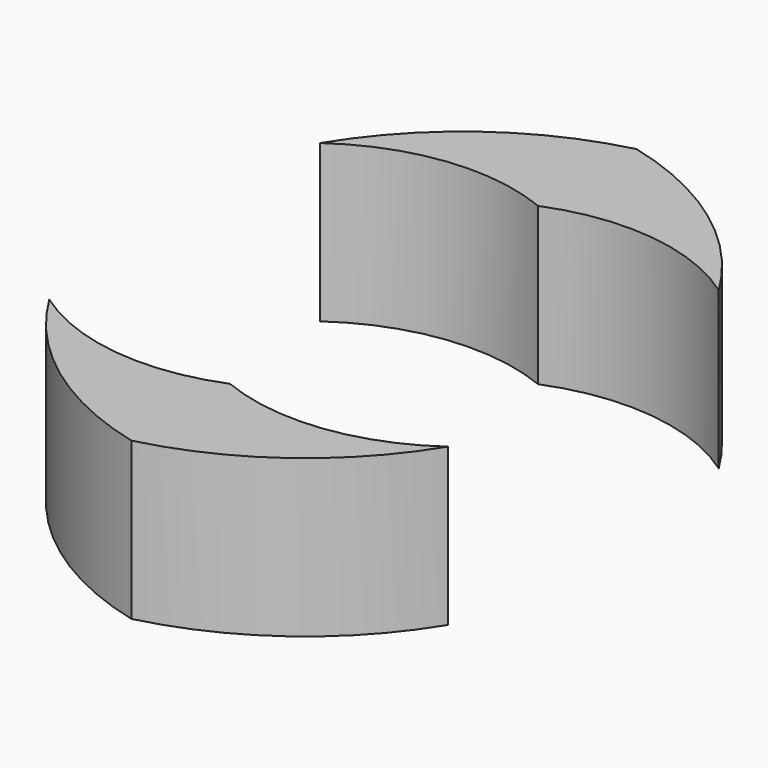
from build123d import *

# Parameters (mm, degrees)
F0_R     = 52.633452
F0_R_2   = 33.65242
F1_DEPTH = 25.4


with BuildPart() as f1:
    # F0 (on Top) → F1 (new body)
    with BuildSketch(Plane.XY):
        Circle(F0_R)
        Circle(F0_R_2, mode=Mode.SUBTRACT)
    extrude(amount=F1_DEPTH)


with BuildPart() as f2_1:
    # F2: copy of F1
    add(f1.part.moved(Location((25.4, 0, 0))))


with BuildPart() as f1_1:
    add(f1.part)

    # F3: intersect F2_1
    add(f2_1.part, mode=Mode.INTERSECT)


solid = f1_1.part
